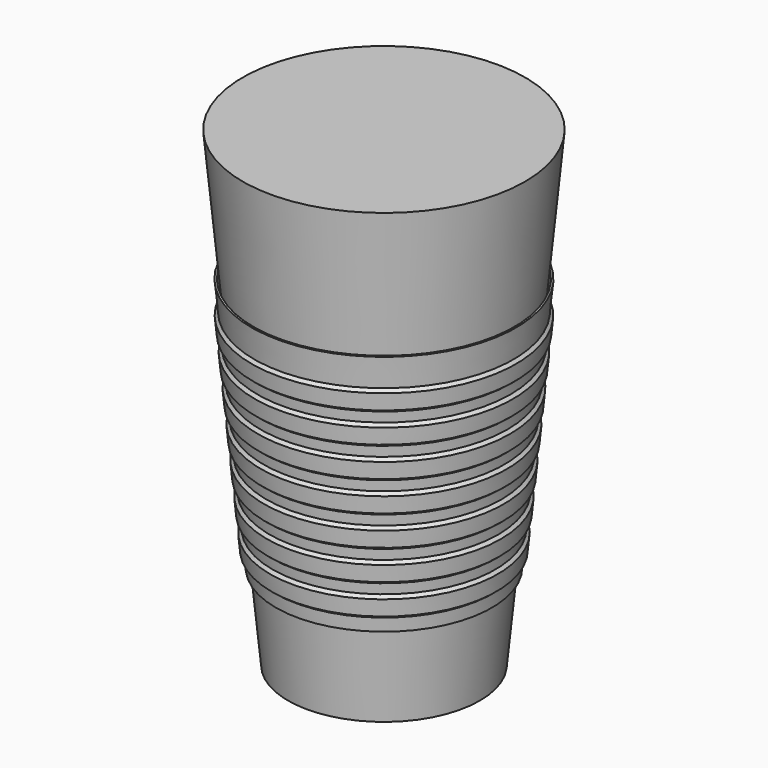
from build123d import *

# Parameters (mm, degrees)
F0_R = 30
F2_R = 44.15


with BuildPart() as f3:
    # F0 (on Top) → F3 section 0
    with BuildSketch(Plane.XY):
        Circle(F0_R)
    # F2 (on offset) → F3 section 1
    with BuildSketch(Plane.XY.offset(147.5)):
        Circle(F2_R)
    loft()


with BuildPart() as f5:
    # F4 (on Front) → F5 (revolve)
    with BuildSketch(Plane.XZ):
        Polygon((-39.892271, 90.608482), (-40.541629, 97.377406), (-41.351572, 96.395574), (-40.874103, 91.418424), align=None)
        Polygon((-33.17659, 26.858451), (-40.810623, 106.435819), (-41.410623, 106.435819), (-40.541629, 97.377406), (-39.892271, 90.608482), (-39.586691, 87.423106), (-38.937333, 80.654181), (-38.631753, 77.468805), (-37.982395, 70.699881), (-37.676815, 67.514505), (-37.027457, 60.745581), (-36.721877, 57.560205), (-36.072519, 50.791281), (-35.766939, 47.605905), (-35.117582, 40.83698), (-34.812001, 37.651604), (-34.162644, 30.88268), (-33.771119, 26.801417), align=None)
        Polygon((-38.937333, 80.654181), (-39.586691, 87.423106), (-40.396634, 86.441274), (-39.919165, 81.464124), align=None)
        Polygon((-37.027457, 60.745581), (-37.676815, 67.514505), (-38.486758, 66.532674), (-38.009289, 61.555523), align=None)
        Polygon((-37.982395, 70.699881), (-38.631753, 77.468805), (-39.441696, 76.486974), (-38.964227, 71.509824), align=None)
        Polygon((-37.054351, 51.601223), (-36.072519, 50.791281), (-36.721877, 57.560205), (-37.53182, 56.578373), align=None)
        Polygon((-36.099413, 41.646923), (-35.117582, 40.83698), (-35.766939, 47.605905), (-36.576882, 46.624073), align=None)
        Polygon((-35.144475, 31.692623), (-34.162644, 30.88268), (-34.812001, 37.651604), (-35.621944, 36.669773), align=None)
    revolve(axis=Axis((0, 0, 73.75), (0, 0, 1)))


solid = Compound([f3.part, f5.part])
